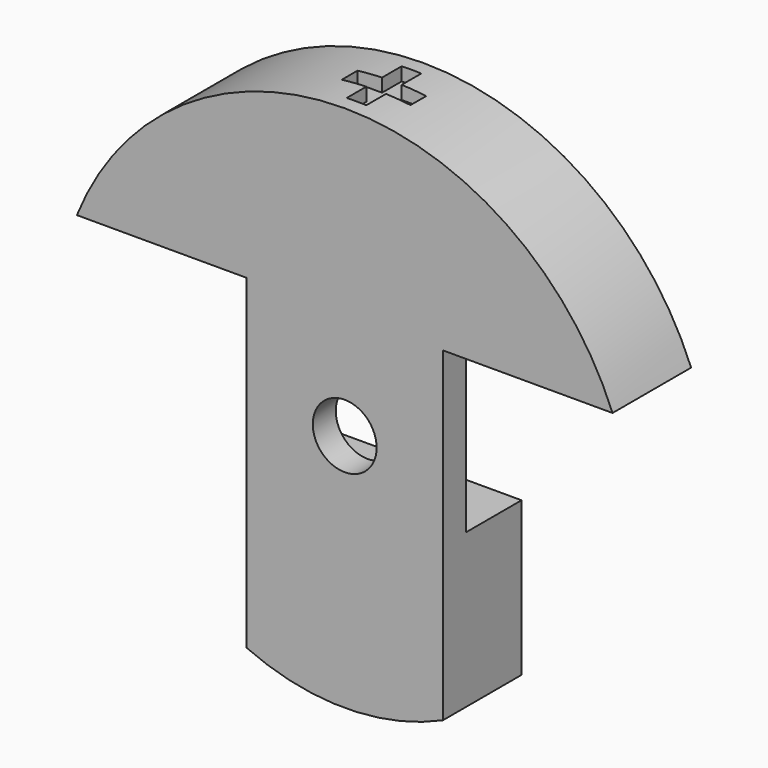
from build123d import *

# Parameters (mm, degrees)
F1_DEPTH = 4
F2_W     = 2.83
F2_H     = 7
F3_DEPTH = 12.5
F6_DEPTH = 0.8
F7_R     = 1.3
F8_DEPTH = 4.001


with BuildPart() as f1:
    # F0 (on Front) → F1 (new body)
    with BuildSketch(Plane.XZ):
        with BuildLine():
            Line((-4, 4.37), (-4, -8.89171))
            ThreePointArc((-4, -8.89171), (0, -9.75), (4, -8.89171))
            Line((4, -8.89171), (4, 4.37))
            Line((4, 4.37), (10.907135, 4.37))
            ThreePointArc((10.907135, 4.37), (0, 11.75), (-10.907135, 4.37))
            Line((-10.907135, 4.37), (-4, 4.37))
        make_face()
    extrude(amount=F1_DEPTH)

    # F2 (on Right) → F3 (cut, symmetric)
    with BuildSketch(Plane.YZ):
        with Locations((-1.415, 0.87)):
            Rectangle(F2_W, F2_H)
    extrude(amount=F3_DEPTH, both=True, mode=Mode.SUBTRACT)

    # F5 (on offset) → F6 (cut)
    with BuildSketch(Plane.XY.offset(12)):
        Polygon((-0.4, -1.6), (-1.4, -1.6), (-1.4, -2.4), (-0.4, -2.4), (-0.4, -3.4), (0.4, -3.4), (0.4, -2.4), (1.4, -2.4), (1.4, -1.6), (0.4, -1.6), (0.4, -0.6), (-0.4, -0.6), align=None)
    extrude(amount=-F6_DEPTH, mode=Mode.SUBTRACT)

    # F7 (on face) → F8 (cut, through all)
    with BuildSketch(Plane.XZ.offset(4)):
        Circle(F7_R)
    extrude(amount=-F8_DEPTH, mode=Mode.SUBTRACT)


solid = f1.part
